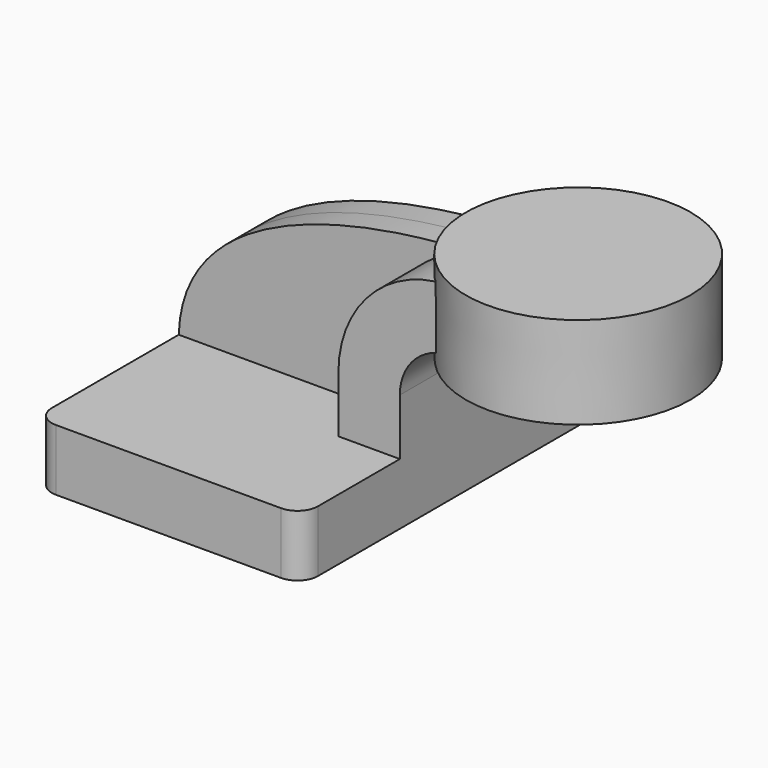
from build123d import *

# Parameters (mm, degrees)
F1_DEPTH = 63.5
F2_DEPTH = 25.4
F3_DEPTH = 25.4
F4_DEPTH = 7.9375
F6_R     = 6.35


with BuildPart() as f1:
    # F0 (on Front) → F1 (new body, symmetric)
    with BuildSketch(Plane.XZ):
        Polygon((-41.275, 9.525), (-41.275, -9.525), (41.275, -9.525), (41.275, 9.525), (22.2250011172, 9.525), align=None)
    extrude(amount=F1_DEPTH, both=True)

    # F0 (on Front) → F2 (join, symmetric)
    with BuildSketch(Plane.XZ):
        with BuildLine():
            Line((22.2250011172, 9.525), (41.275, 9.525))
            Line((41.275, 9.525), (41.275, 27.0002))
            ThreePointArc((41.275, 27.0002), (45.9246798487, 38.2255201513), (57.15, 42.8752))
            Line((57.15, 42.8752), (60.325, 42.8752))
            Line((60.325, 42.8752), (60.325, 61.9251988828))
            Line((60.325, 61.9251988828), (57.15, 61.9251988828))
            add(Edge.make_bspline(
                [(55.4567430493, 61.8841279306), (56.0220700945, 61.8996898871), (56.5865253234, 61.913371712), (57.15, 61.9251988828)],
                knots=[110.1217614603, 110.1217614603, 110.1217614603, 110.1217614603, 111.5045356385, 111.5045356385, 111.5045356385, 111.5045356385], degree=3))
            ThreePointArc((55.4567430493, 61.8841279306), (31.8627250966, 51.089809273), (22.2250011172, 27.0002))
            Line((22.2250011172, 27.0002), (22.2250011172, 9.525))
        make_face()
    extrude(amount=F2_DEPTH, both=True)

    # F3 (add): a face of the model
    f3_faces = [f1.faces().sort_by_distance(p)[0] for p in [
        (60.325, 0, 52.4001994414),
    ]]
    extrude(f3_faces, amount=F3_DEPTH)

    # F0 (on Front) → F4 (join, symmetric)
    with BuildSketch(Plane.XZ):
        with BuildLine():
            add(Edge.make_bspline(
                [(-41.275, 9.525), (-40.1158891468, 47.4811966341), (10.4350677867, 60.6448004288), (55.4567430493, 61.8841279306)],
                knots=[0, 0, 0, 0, 110.1217614603, 110.1217614603, 110.1217614603, 110.1217614603], degree=3))
            Line((-41.275, 9.525), (22.2250011172, 9.525))
            Line((22.2250011172, 9.525), (22.2250011172, 27.0002))
            ThreePointArc((22.2250011172, 27.0002), (31.8627250966, 51.089809273), (55.4567430493, 61.8841279306))
        make_face()
    extrude(amount=F4_DEPTH, both=True)

    # F0 (on Front) → F5 (revolve)
    with BuildSketch(Plane.XZ):
        Polygon((111.125, 66.675), (76.2634606961, 66.675), (76.2987583876, 38.1), (111.125, 38.1), align=None)
    revolve(axis=Axis((76.2811095418, 0, 52.3875), (-0.0012352639, 0, 0.9999992371)))

    # F6
    f6_edges = [f1.edges().sort_by_distance(p)[0] for p in [
        (-41.275, -63.5, 0),
        (41.275, -63.5, 0),
        (41.275, 63.5, 0),
        (-41.275, 63.5, 0),
    ]]
    fillet(f6_edges, radius=F6_R)


solid = f1.part
